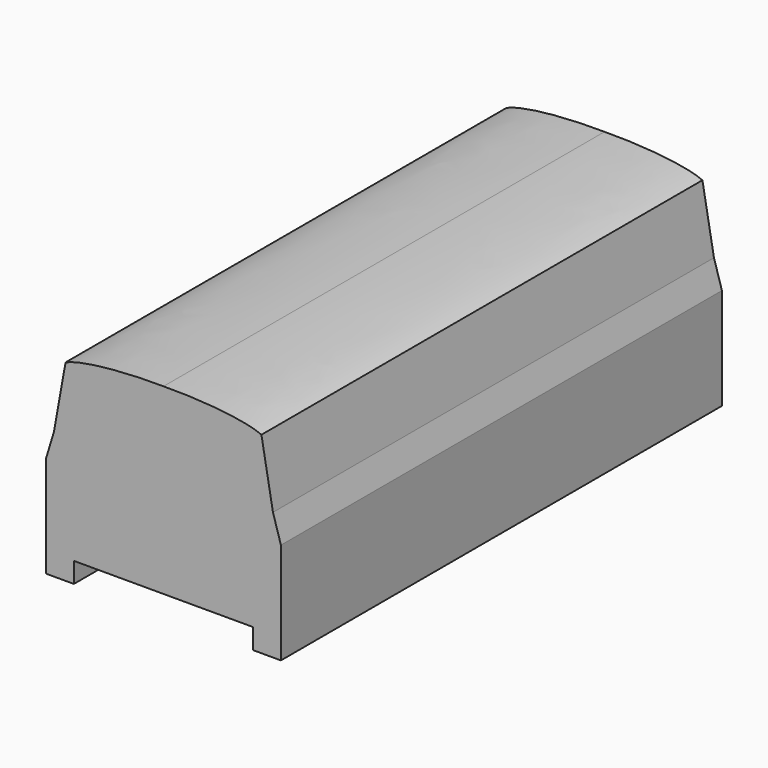
from build123d import *

# Parameters (mm, degrees)
F1_DEPTH = 406.8


with BuildPart() as f1:
    # F0 (on Front) → F1 (new body)
    with BuildSketch(Plane.XZ):
        Polygon((66.15, -59.636273), (66.15, -74.636273), (86.65, -74.636273), (86.65, -59.636273), (82.186028, -59.636273), align=None)
        with BuildLine():
            Line((0, -59.636273), (66.15, -59.636273))
            Line((66.15, -59.636273), (82.186028, -59.636273))
            Line((82.186028, -59.636273), (86.65, -52.384976))
            Line((86.65, -52.384976), (86.65, 0.313727))
            Line((86.65, 0.313727), (80.778837, 19.675661))
            Line((80.778837, 19.675661), (72.271161, 67.318626))
            add(Edge.make_bspline(
                [(72.271161, 67.318626), (58.415808, 73.395535), (24.068462, 75.59637), (0, 75.263727)],
                knots=[0, 0, 0, 0, 72.70657, 72.70657, 72.70657, 72.70657], degree=3))
            Line((0, 75.263727), (0, -59.636273))
        make_face()
        Polygon((82.186028, -59.636273), (86.65, -59.636273), (86.65, -52.384976), align=None)
        with BuildLine():
            Line((-66.15, -59.636273), (0, -59.636273))
            Line((0, -59.636273), (0, 75.263727))
            add(Edge.make_bspline(
                [(-72.271161, 67.318626), (-58.415808, 73.395535), (-24.068462, 75.59637), (0, 75.263727)],
                knots=[0, 0, 0, 0, 72.70657, 72.70657, 72.70657, 72.70657], degree=3))
            Line((-72.271161, 67.318626), (-80.778837, 19.675661))
            Line((-80.778837, 19.675661), (-86.65, 0.313727))
            Line((-86.65, 0.313727), (-86.65, -52.384976))
            Line((-86.65, -52.384976), (-82.186028, -59.636273))
            Line((-82.186028, -59.636273), (-66.15, -59.636273))
        make_face()
        Polygon((-66.15, -74.636273), (-66.15, -59.636273), (-82.186028, -59.636273), (-86.65, -59.636273), (-86.65, -74.636273), align=None)
        Polygon((-86.65, -59.636273), (-82.186028, -59.636273), (-86.65, -52.384976), align=None)
    extrude(amount=-F1_DEPTH)


solid = f1.part
